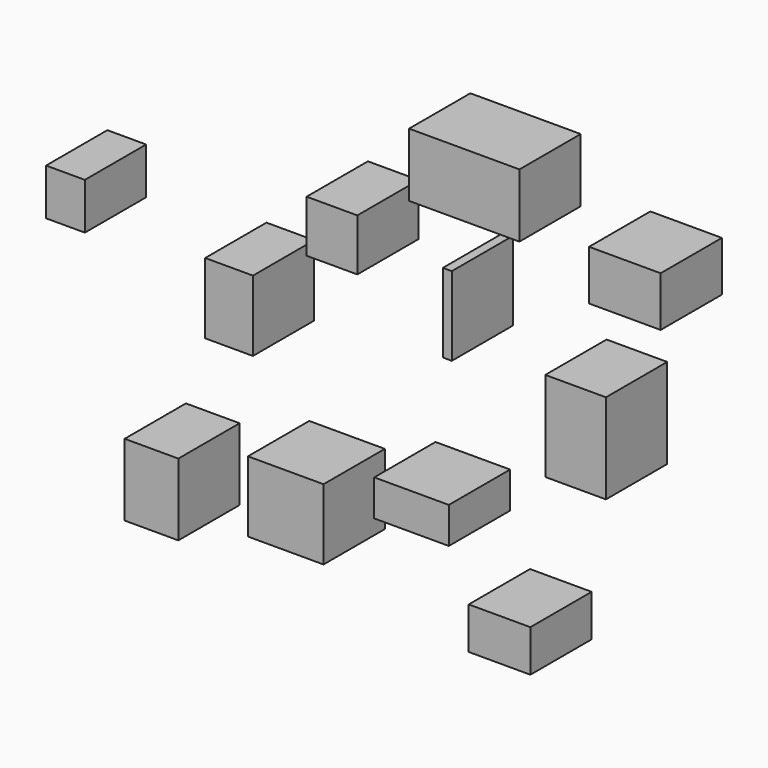
from build123d import *

# Parameters (mm, degrees)
F0_W     = 12.657762
F0_H     = 15.170373
F0_W_2   = 17.526134
F0_H_2   = 23.501746
F0_W_3   = 15.57878
F0_H_3   = 23.090221
F0_W_4   = 16.552458
F0_H_4   = 16.967103
F0_W_5   = 2.921027
F0_H_5   = 25.77053
F0_W_6   = 19.798029
F0_H_6   = 29.337074
F0_W_7   = 20.122594
F0_H_7   = 13.664588
F0_W_8   = 24.666406
F0_H_8   = 23.063319
F0_W_9   = 24.341842
F0_H_9   = 11.797486
F0_W_10  = 23.368184
F0_H_10  = 16.297798
F0_W_11  = 36.025939
F0_H_11  = 20.75778
F1_DEPTH = 25


with BuildPart() as f1:
    # F0 (on Front) → F1 (new body)
    with BuildSketch(Plane.XZ):
        with Locations((-116.678603, 36.746874)):
            Rectangle(F0_W, F0_H)
        with Locations((-88.604331, -37.586514)):
            Rectangle(F0_W_2, F0_H_2)
        with Locations((-63.288806, 23.111239)):
            Rectangle(F0_W_3, F0_H_3)
        with Locations((-29.697056, 54.553732)):
            Rectangle(F0_W_4, F0_H_4)
        with Locations((7.951676, 44.163432)):
            Rectangle(F0_W_5, F0_H_5)
        with Locations((49.819654, 22.495644)):
            Rectangle(F0_W_6, F0_H_6)
        with Locations((24.990969, -43.741334)):
            Rectangle(F0_W_7, F0_H_7)
        with Locations((-44.789005, -29.31965)):
            Rectangle(F0_W_8, F0_H_8)
        with Locations((-3.732418, -16.331683)):
            Rectangle(F0_W_9, F0_H_9)
        with Locations((65.885274, 70.461886)):
            Rectangle(F0_W_10, F0_H_10)
        with Locations((13.469153, 83.080359)):
            Rectangle(F0_W_11, F0_H_11)
    extrude(amount=F1_DEPTH)


solid = f1.part
